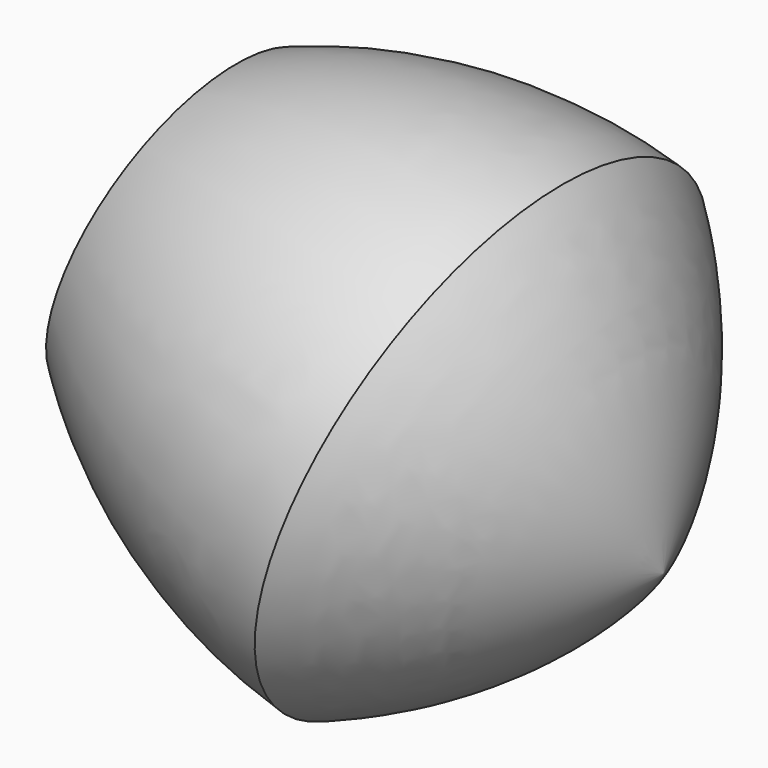
from build123d import *


with BuildPart() as f1:
    # F0 (on Front) → F1 (revolve)
    with BuildSketch(Plane.XZ):
        with BuildLine():
            Line((-26.7093145353, -8.6783823654), (-21.6082893672, 7.0209588173))
            Line((-21.6082893672, 7.0209588173), (-24.0948207339, 7.8288818336))
            ThreePointArc((-24.0948207339, 7.8288818336), (-26.0516425683, -0.3218677036), (-26.7093145353, -8.6783823654))
        make_face()
        Polygon((26.7093145353, -8.6783823654), (-21.6082893672, 7.0209588173), (-26.7093145353, -8.6783823654), (0, -28.0838352692), align=None)
        with BuildLine():
            Line((0, -28.0838352692), (-26.7093145353, -8.6783823654))
            ThreePointArc((-26.7093145353, -8.6783823654), (-14.8914181664, -20.4962787344), (0, -28.0838352692))
        make_face()
        with BuildLine():
            ThreePointArc((0, -28.0838352692), (14.8914181664, -20.4962787344), (26.7093145353, -8.6783823654))
            Line((26.7093145353, -8.6783823654), (0, -28.0838352692))
        make_face()
    revolve(axis=Axis((-22.8515550505, 0, 7.4249203255), (-0.9510565163, 0, 0.3090169944)))


solid = f1.part
